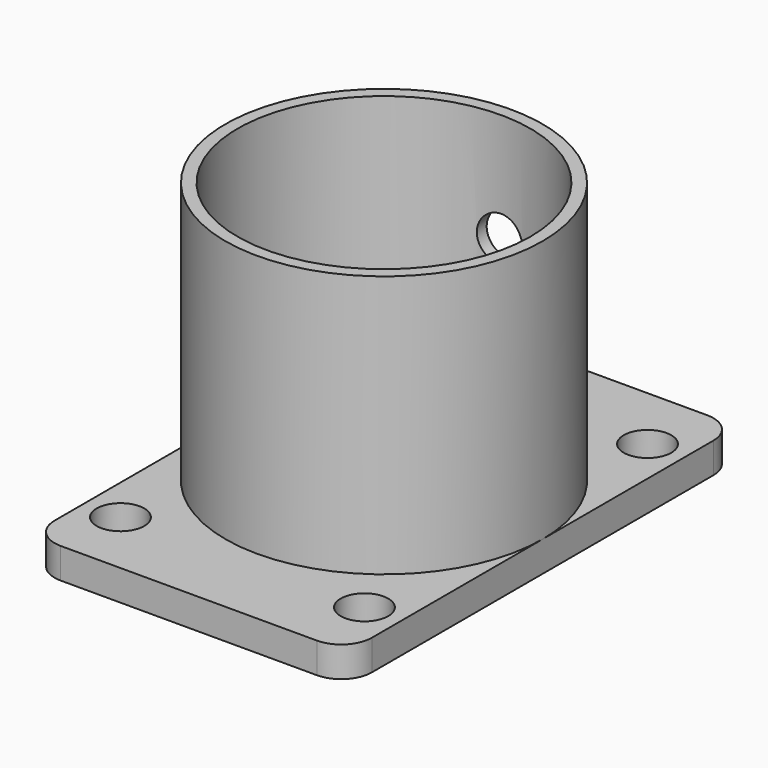
from build123d import *

# Parameters (mm, degrees)
F0_R     = 4.953
F0_R_2   = 30.48
F1_DEPTH = 6.35
F2_R     = 33.02
F2_R_2   = 30.48
F3_DEPTH = 54.61
F5_D     = 9.525
F5_DEPTH = 50.801


with BuildPart() as f1:
    # F0 (on Top) → F1 (new body)
    with BuildSketch(Plane.XY):
        with BuildLine():
            ThreePointArc((33.02, 44.45), (31.1601280605, 48.9401280605), (26.67, 50.8))
            Line((26.67, 50.8), (-26.67, 50.8))
            ThreePointArc((-26.67, 50.8), (-31.1601280605, 48.9401280605), (-33.02, 44.45))
            Line((-33.02, 44.45), (-33.02, -44.45))
            ThreePointArc((-33.02, -44.45), (-31.1601280605, -48.9401280605), (-26.67, -50.8))
            Line((-26.67, -50.8), (26.67, -50.8))
            ThreePointArc((26.67, -50.8), (31.1601280605, -48.9401280605), (33.02, -44.45))
            Line((33.02, -44.45), (33.02, 44.45))
        make_face()
        with Locations((-25.4, -36.83)):
            Circle(F0_R, mode=Mode.SUBTRACT)
        with Locations((25.4, -36.83)):
            Circle(F0_R, mode=Mode.SUBTRACT)
        Circle(F0_R_2, mode=Mode.SUBTRACT)
        with Locations((-23.5207291554, 36.83)):
            Circle(F0_R, mode=Mode.SUBTRACT)
        with Locations((25.4, 36.83)):
            Circle(F0_R, mode=Mode.SUBTRACT)
    extrude(amount=F1_DEPTH)

    # F2 (on face) → F3 (join)
    with BuildSketch(Plane.XY.offset(6.35)):
        Circle(F2_R)
        Circle(F2_R_2, mode=Mode.SUBTRACT)
    extrude(amount=F3_DEPTH)

    # F5 (through all, one way)
    with BuildSketch(Plane.XZ):
        with Locations((0, 38.1)):
            Circle(F5_D / 2)
    extrude(amount=-F5_DEPTH, mode=Mode.SUBTRACT)


solid = f1.part
